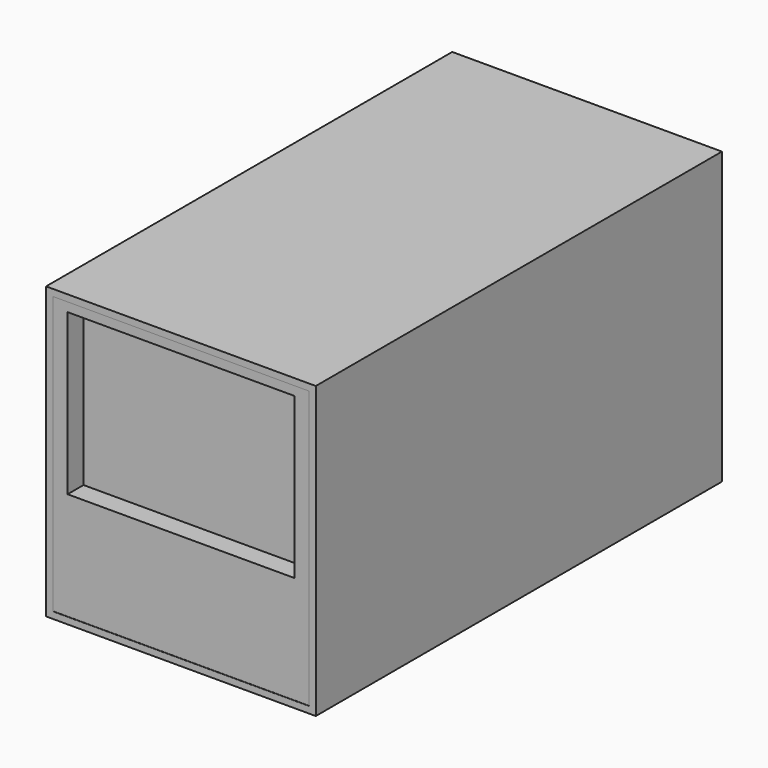
from build123d import *

# Parameters (mm, degrees)
F0_W      = 512.7625
F0_H      = 552.45
F1_DEPTH  = 965.2
F2_W      = 487.3625
F2_H      = 527.05
F3_DEPTH  = 0.508
F4_W      = 431.8
F4_H      = 304.8
F5_DEPTH  = 38.1
F5_FACE_W = 431.8
F5_FACE_H = 304.8
F6_DEPTH  = 0.254


with BuildPart() as f1:
    # F0 (on Front) → F1 (new body)
    with BuildSketch(Plane.XZ):
        with Locations((0, -103.1875)):
            Rectangle(F0_W, F0_H)
    extrude(amount=-F1_DEPTH)

    # F2 (on face) → F3 (cut)
    with BuildSketch(Plane.XZ):
        with Locations((0, -103.1875)):
            Rectangle(F2_W, F2_H)
    extrude(amount=-F3_DEPTH, mode=Mode.SUBTRACT)

    # F4 (on face) → F5 (cut)
    with BuildSketch(Plane.XZ.offset(-0.508)):
        with Locations((0, -9.525)):
            Rectangle(F4_W, F4_H)
    extrude(amount=-F5_DEPTH, mode=Mode.SUBTRACT)


with BuildPart() as f6:
    # F5_face (on face) → F6 (new body)
    with BuildSketch(Plane(origin=(0, 38.608, -9.525), x_dir=(1, 0, 0), z_dir=(0, -1, 0))):
        Rectangle(F5_FACE_W, F5_FACE_H)
    extrude(amount=F6_DEPTH)


solid = Compound([f1.part, f6.part])
